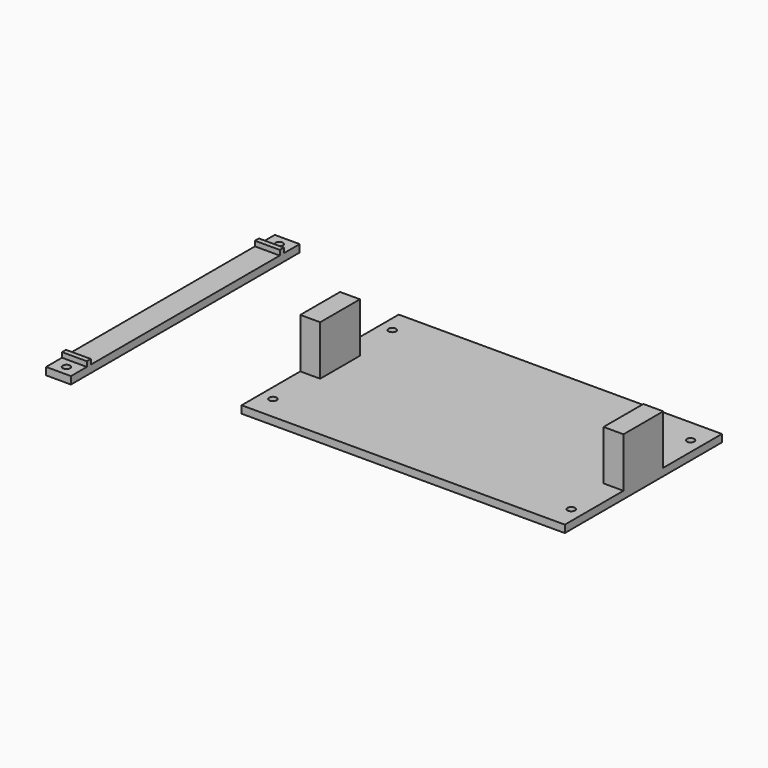
from build123d import *

# Parameters (mm, degrees)
F0_W     = 110
F0_H     = 79
F0_W_2   = 10
F0_R     = 1.5
F1_DEPTH = 3
F2_W     = 8
F2_H     = 20
F3_DEPTH = 20
F4_W     = 10
F4_H     = 10
F4_R     = 1.5
F4_H_2   = 95
F5_DEPTH = 3
F6_W     = 10
F6_H     = 2
F7_DEPTH = 2


with BuildPart() as f1:
    # F0 (on Top) → F1 (new body)
    with BuildSketch(Plane.XY):
        Rectangle(F0_W, F0_H)
        with Locations((60, 0)):
            Rectangle(F0_W_2, F0_H)
        with Locations((60, -30)):
            Circle(F0_R, mode=Mode.SUBTRACT)
        with Locations((60, 30)):
            Circle(F0_R, mode=Mode.SUBTRACT)
        with Locations((-60, 0)):
            Rectangle(F0_W_2, F0_H)
        with Locations((-60, -30)):
            Circle(F0_R, mode=Mode.SUBTRACT)
        with Locations((-60, 30)):
            Circle(F0_R, mode=Mode.SUBTRACT)
    extrude(amount=F1_DEPTH)

    # F2 (on face) → F3 (join)
    with BuildSketch(Plane.XY.offset(3)):
        with Locations((-61, 0)):
            Rectangle(F2_W, F2_H)
        with Locations((61, 0)):
            Rectangle(F2_W, F2_H)
    extrude(amount=F3_DEPTH)


with BuildPart() as f5:
    # F4 (on Top) → F5 (new body)
    with BuildSketch(Plane.XY):
        with Locations((-124.247089, -52.5)):
            Rectangle(F4_W, F4_H)
        with Locations((-124.247089, -53.5)):
            Circle(F4_R, mode=Mode.SUBTRACT)
        with Locations((-124.247089, 0)):
            Rectangle(F4_W, F4_H_2)
        with Locations((-124.247089, 52.5)):
            Rectangle(F4_W, F4_H)
        with Locations((-124.247089, 53.5)):
            Circle(F4_R, mode=Mode.SUBTRACT)
    extrude(amount=F5_DEPTH)

    # F6 (on face) → F7 (join)
    with BuildSketch(Plane.XY.offset(3)):
        with Locations((-124.247089, 48.5)):
            Rectangle(F6_W, F6_H)
        with Locations((-124.247089, -48.5)):
            Rectangle(F6_W, F6_H)
    extrude(amount=F7_DEPTH)


solid = Compound([f1.part, f5.part])
